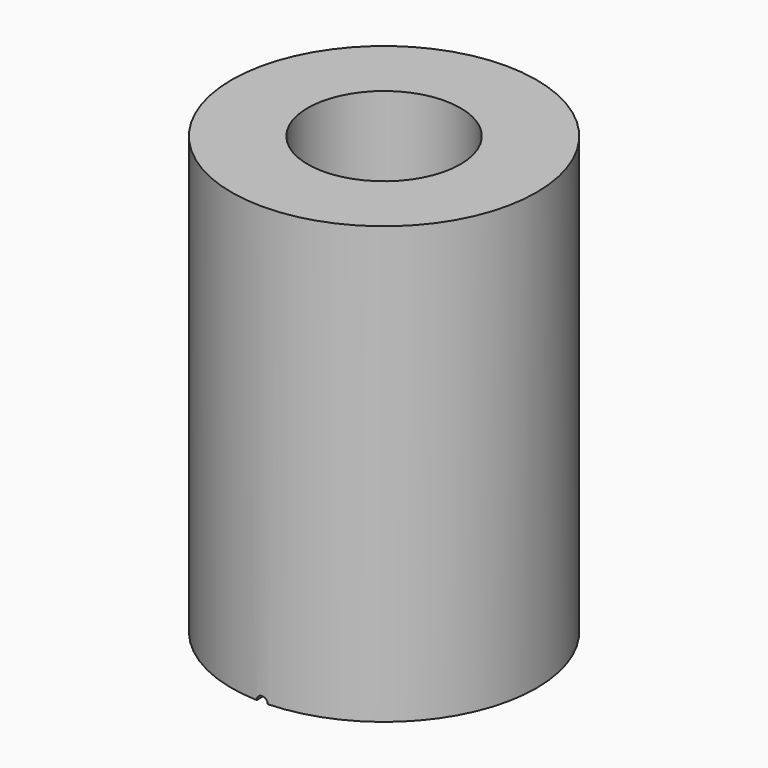
from build123d import *

# Parameters (mm, degrees)
F0_R     = 88.735114
F0_R_2   = 44.452267
F1_DEPTH = 254
F4_D     = 6.35


with BuildPart() as f1:
    # F0 (on Top) → F1 (new body)
    with BuildSketch(Plane.XY):
        Circle(F0_R)
        Circle(F0_R_2, mode=Mode.SUBTRACT)
    extrude(amount=F1_DEPTH)

    # F4 (through all)
    with Locations(Plane(origin=(0, 187.384048, 0), x_dir=(1, 0, 0), z_dir=(0, 1, 0))):
        with Locations((0, 0)):
            Hole(F4_D / 2)


solid = f1.part
